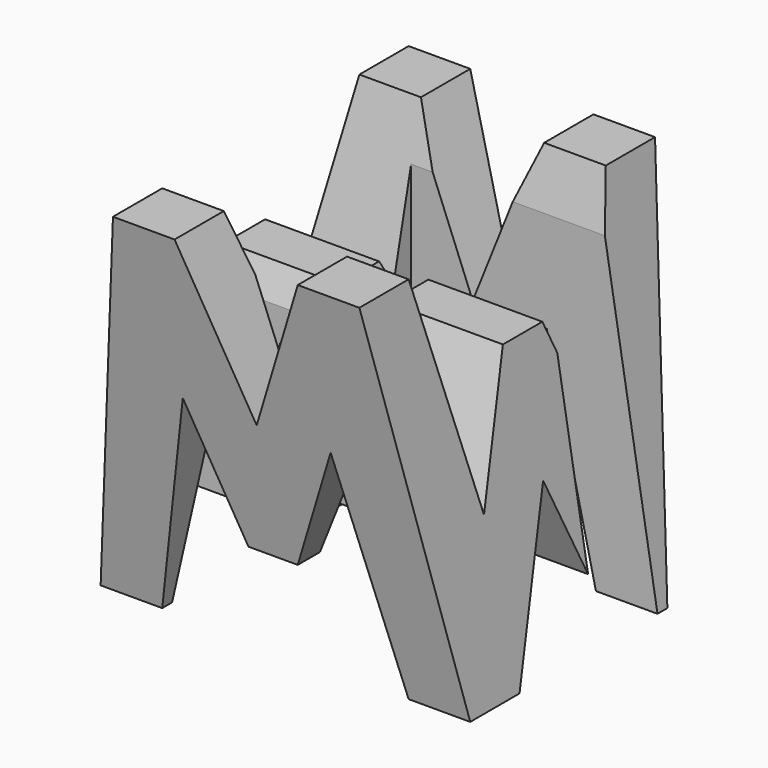
from build123d import *

# Parameters (mm, degrees)
F0_W      = 38.1
F0_H      = 38.1
F1_DEPTH  = 38.1
F6_DEPTH  = 38.1
F8_DEPTH  = 38.1
F9_W      = 25.4
F9_H      = 7.62
F10_DEPTH = 38.1


with BuildPart() as f1:
    # F0 (on Front) → F1 (new body)
    with BuildSketch(Plane.XZ):
        with Locations((19.05, 19.05)):
            Rectangle(F0_W, F0_H)
    extrude(amount=F1_DEPTH)

    # F5 (on offset) → F6 (cut)
    with BuildSketch(Plane.YZ.offset(38.1)):
        Polygon((-11.43, 15.875), (-6.35, 38.1), (-31.75, 38.1), (-26.67, 15.875), (-21.59, 28.575), (-16.51, 28.575), align=None)
        Polygon((-25.4, 0), (-12.7, 0), (-19.05, 15.875), align=None)
        Polygon((-31.75, 0), (-38.1, 38.1), (-38.1, 0), align=None)
        Polygon((-6.35, 0), (0, 0), (0, 38.1), align=None)
    extrude(amount=-F6_DEPTH, mode=Mode.SUBTRACT)

    # F7 (on offset) → F8 (cut)
    with BuildSketch(Plane.XZ.offset(38.1)):
        Polygon((6.35, 38.1), (0, 38.1), (0, 0), align=None)
        Polygon((11.43, 22.225), (6.35, 0), (31.75, 0), (26.67, 22.225), (21.59, 9.525), (16.51, 9.525), align=None)
        Polygon((25.4, 38.1), (12.7, 38.1), (19.05, 22.225), align=None)
        Polygon((31.75, 38.1), (38.1, 0), (38.1, 38.1), align=None)
    extrude(amount=-F8_DEPTH, mode=Mode.SUBTRACT)

    # F9 (on offset) → F10 (cut)
    with BuildSketch(Plane.XY.offset(38.1)):
        with Locations((25.4, -11.43)):
            Rectangle(F9_W, F9_H)
        with Locations((12.7, -26.67)):
            Rectangle(F9_W, F9_H)
    extrude(amount=-F10_DEPTH, mode=Mode.SUBTRACT)


solid = f1.part
